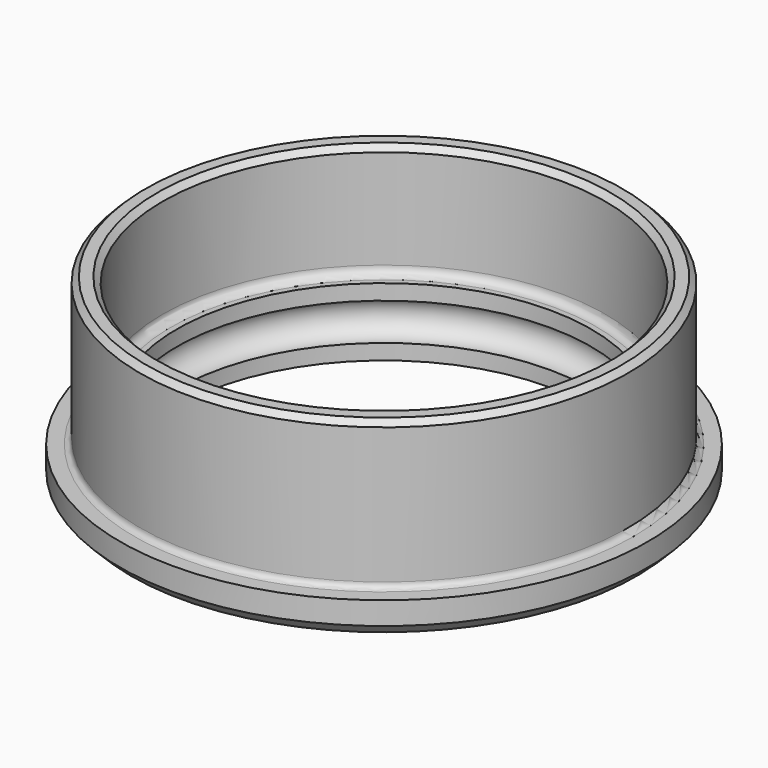
from build123d import *

# Parameters (mm, degrees)
F2_R    = 0.5
F3_SIZE = 1
F4_SIZE = 0.5
F5_R    = 0.75


with BuildPart() as f1:
    # F0 (on Right) → F1 (revolve)
    with BuildSketch(Plane.YZ):
        with BuildLine():
            Line((19.5, 3), (18.25, 3))
            Line((18.25, 3), (18.25, 1.64))
            ThreePointArc((18.25, 1.64), (19.89, 0), (18.25, -1.64))
            Line((18.25, -1.64), (18.25, -3))
            Line((18.25, -3), (23.25, -3))
            Line((23.25, -3), (23.25, 0))
            Line((23.25, 0), (21.5, 0))
            Line((21.5, 0), (21.5, 3))
            Line((21.5, 3), (19.5, 3))
        make_face()
        Polygon((19.5, 11), (19.5, 3), (21.5, 3), (21.5, 13), (19.5, 13), align=None)
    revolve(axis=Axis((0, 0, 4.880332), (0, 0, 1)))

    # F2
    f2_edges = [f1.edges().sort_by_distance(p)[0] for p in [
        (0, -21.5, 0),
    ]]
    fillet(f2_edges, radius=F2_R)

    # F3
    f3_edges = [f1.edges().sort_by_distance(p)[0] for p in [
        (0, -23.25, -3),
    ]]
    chamfer(f3_edges, length=F3_SIZE)

    # F4
    f4_edges = [f1.edges().sort_by_distance(p)[0] for p in [
        (0, -21.5, 13),
        (0, -19.5, 13),
    ]]
    chamfer(f4_edges, length=F4_SIZE)

    # F5
    f5_edges = [f1.edges().sort_by_distance(p)[0] for p in [
        (0, -19.5, 3),
    ]]
    fillet(f5_edges, radius=F5_R)


solid = f1.part
